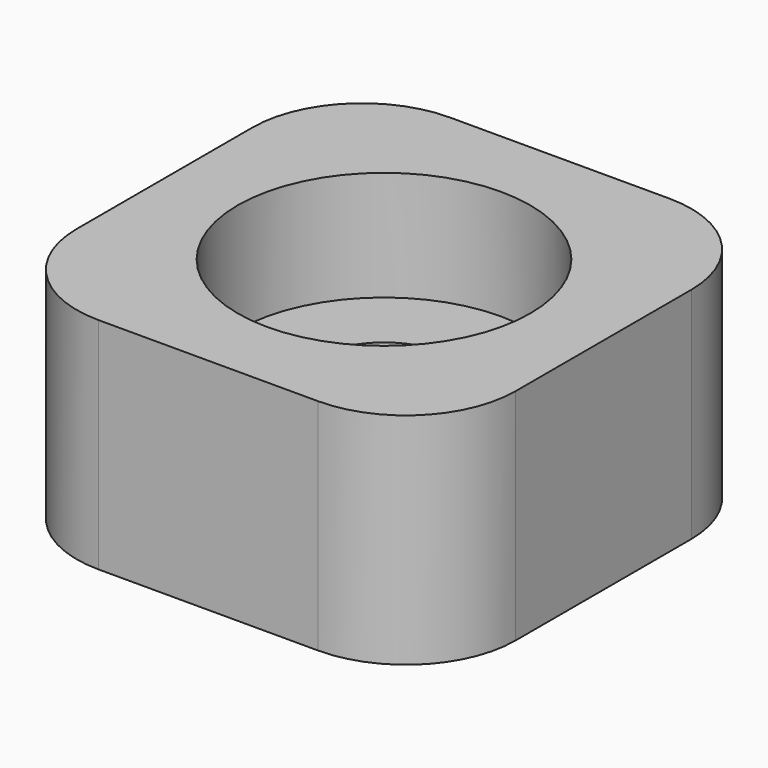
from build123d import *

# Parameters (mm, degrees)
SKETCH_W     = 12
SKETCH_H     = 12
PAD_DEPTH    = 6
SKETCH001_R  = 1.925
HOLE_DEPTH   = 6.001
SKETCH002_R  = 4
POCKET_DEPTH = 3
FILLET_R     = 3


with BuildPart() as part:
    # Sketch → Pad (new body)
    with BuildSketch(Plane.XY):
        with Locations((6, 6)):
            Rectangle(SKETCH_W, SKETCH_H)
    extrude(amount=PAD_DEPTH)

    # Sketch001 (on Face6 of Pad) → Hole (cut, through all)
    with BuildSketch(Plane.XY.offset(6)):
        with Locations((6, 6)):
            Circle(SKETCH001_R)
    extrude(amount=-HOLE_DEPTH, mode=Mode.SUBTRACT)

    # Sketch002 (on Face5 of Hole) → Pocket (cut)
    with BuildSketch(Plane.XY.offset(6)):
        with Locations((6, 6)):
            Circle(SKETCH002_R)
    extrude(amount=-POCKET_DEPTH, mode=Mode.SUBTRACT)

    # Fillet
    fillet_edges = [part.edges().sort_by_distance(p)[0] for p in [
        (0, 0, 3),
        (12, 0, 3),
        (12, 12, 3),
        (0, 12, 3),
    ]]
    fillet(fillet_edges, radius=FILLET_R)


solid = part.part
